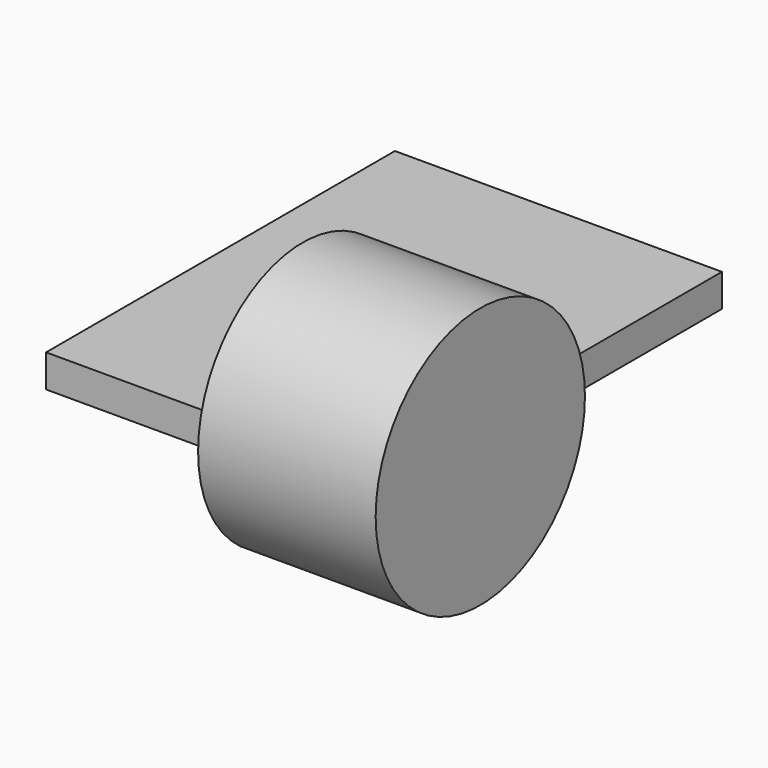
from build123d import *

# Parameters (mm, degrees)
F0_W     = 150
F0_H     = 200
F1_DEPTH = 15
F2_R     = 60
F3_DEPTH = 81.44554


with BuildPart() as f1:
    # F0 (on Top) → F1 (new body)
    with BuildSketch(Plane.XY):
        with Locations((-6.63894, 50.128499)):
            Rectangle(F0_W, F0_H)
    extrude(amount=F1_DEPTH)

    # F2 (on Right) → F3 (join)
    with BuildSketch(Plane.YZ):
        with Locations((-4.760173, 7.580816)):
            Circle(F2_R)
    extrude(amount=F3_DEPTH)


solid = f1.part
